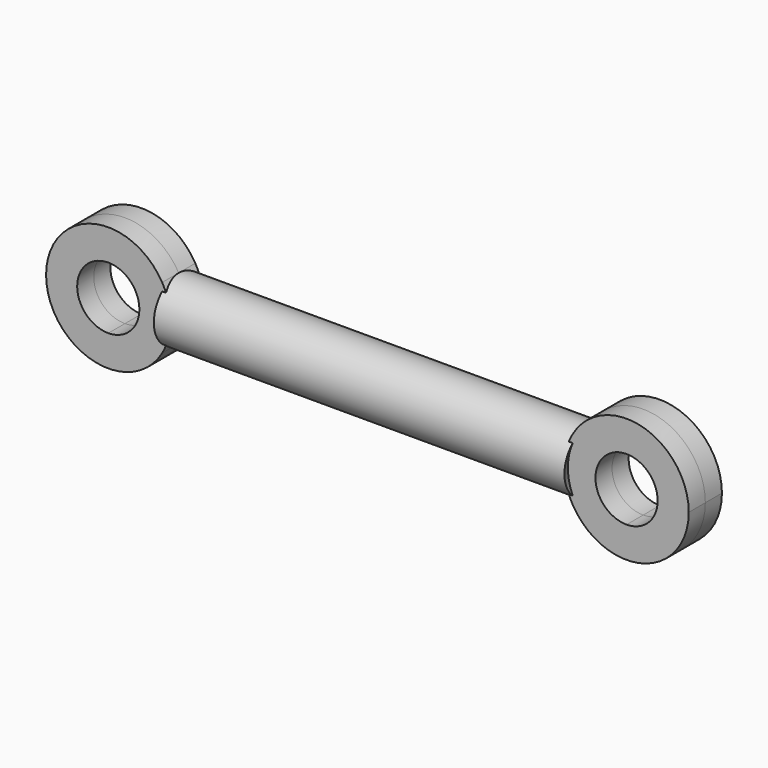
from build123d import *

# Parameters (mm, degrees)
F2_DEPTH = 1


with BuildPart() as f1:
    # F0 (on Front) → F1 (revolve)
    with BuildSketch(Plane.XZ):
        with BuildLine():
            ThreePointArc((-3, 0), (-2.8977774789, 0.7764571353), (-2.5980762114, 1.5))
            Line((-2.5980762114, 1.5), (-22.4019237886, 1.5))
            ThreePointArc((-22.4019237886, 1.5), (-22.1022225211, 0.7764571353), (-22, 0))
            Line((-22, 0), (-3, 0))
        make_face()
    revolve(axis=Axis((-8.7208154146, 0, 0), (1, 0, 0)))

    # F0 (on Front) → F2 (join, symmetric)
    with BuildSketch(Plane.XZ):
        with BuildLine():
            Line((-25, 1.5), (-22.4019237886, 1.5))
            ThreePointArc((-22.4019237886, 1.5), (-28, 0), (-22.4019237886, -1.5))
            Line((-22.4019237886, -1.5), (-25, -1.5))
            ThreePointArc((-25, -1.5), (-26.5, 0), (-25, 1.5))
        make_face()
        with BuildLine():
            ThreePointArc((0, 1.5), (1.0606601718, 1.0606601718), (1.5, 0))
            ThreePointArc((1.5, 0), (1.0606601718, -1.0606601718), (0, -1.5))
            Line((0, -1.5), (-2.5980762114, -1.5))
            ThreePointArc((-2.5980762114, -1.5), (0.7764571353, -2.8977774789), (3, 0))
            ThreePointArc((3, 0), (0.7764571353, 2.8977774789), (-2.5980762114, 1.5))
            Line((-2.5980762114, 1.5), (0, 1.5))
        make_face()
        with BuildLine():
            ThreePointArc((0, -1.5), (-1.5, 0), (0, 1.5))
            Line((0, 1.5), (-2.5980762114, 1.5))
            ThreePointArc((-2.5980762114, 1.5), (-2.8977774789, 0.7764571353), (-3, 0))
            ThreePointArc((-3, 0), (-2.8977774789, -0.7764571353), (-2.5980762114, -1.5))
            Line((-2.5980762114, -1.5), (0, -1.5))
        make_face()
        with BuildLine():
            ThreePointArc((-22, 0), (-22.1022225211, 0.7764571353), (-22.4019237886, 1.5))
            Line((-22.4019237886, 1.5), (-25, 1.5))
            ThreePointArc((-25, 1.5), (-23.9393398282, 1.0606601718), (-23.5, 0))
            ThreePointArc((-23.5, 0), (-23.9393398282, -1.0606601718), (-25, -1.5))
            Line((-25, -1.5), (-22.4019237886, -1.5))
            ThreePointArc((-22.4019237886, -1.5), (-22.1022225211, -0.7764571353), (-22, 0))
        make_face()
    extrude(amount=F2_DEPTH, both=True)


solid = f1.part
